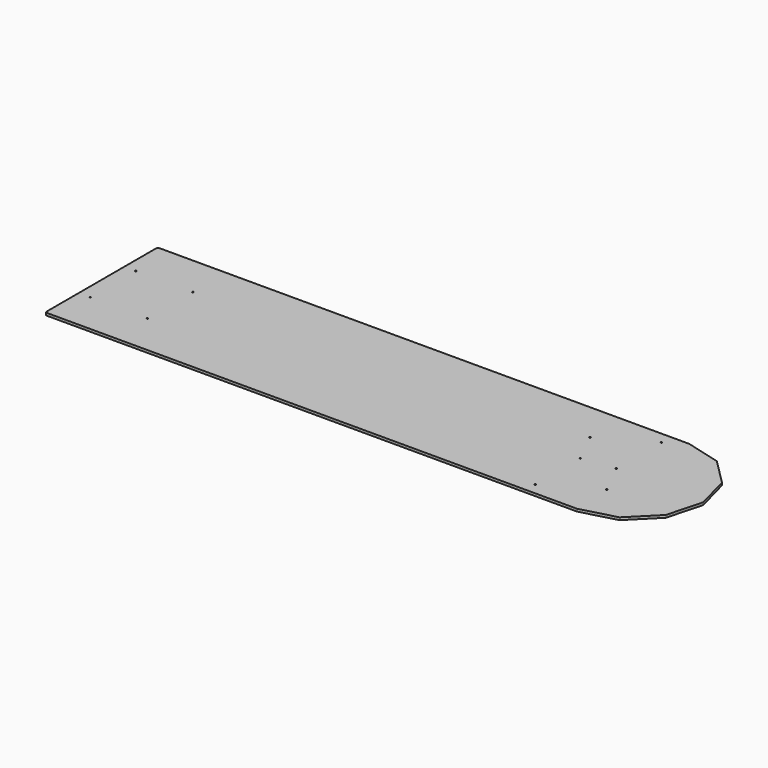
from build123d import *

# Parameters (mm, degrees)
F0_R     = 1.7272
F1_DEPTH = 6.35
F2_R     = 3.96875


with BuildPart() as f1:
    # F0 (on Top) → F1 (new body)
    with BuildSketch(Plane.XY):
        Polygon((88.9, 153.979317), (0, 177.8), (-1346.2, 177.8), (-1346.2, -177.8), (0, -177.8), (88.9, -153.979317), (153.979317, -88.9), (177.8, 0), (153.979317, 88.9), align=None)
        with Locations((-1316.83125, -72.23125)):
            Circle(F0_R, mode=Mode.SUBTRACT)
        with Locations((-1172.36875, -72.23125)):
            Circle(F0_R, mode=Mode.SUBTRACT)
        with Locations((-129.214784, -148.166667)):
            Circle(F0_R, mode=Mode.SUBTRACT)
        with Locations((-5.389784, -76.67627)):
            Circle(F0_R, mode=Mode.SUBTRACT)
        with Locations((-129.214784, -5.185873)):
            Circle(F0_R, mode=Mode.SUBTRACT)
        with Locations((-1316.83125, 72.23125)):
            Circle(F0_R, mode=Mode.SUBTRACT)
        with Locations((-1172.36875, 72.23125)):
            Circle(F0_R, mode=Mode.SUBTRACT)
        with Locations((-46.664784, 5.185873)):
            Circle(F0_R, mode=Mode.SUBTRACT)
        with Locations((-170.489784, 76.67627)):
            Circle(F0_R, mode=Mode.SUBTRACT)
        with Locations((-46.664784, 148.166667)):
            Circle(F0_R, mode=Mode.SUBTRACT)
    extrude(amount=F1_DEPTH)

    # F2
    f2_edges = [f1.edges().sort_by_distance(p)[0] for p in [
        (0, -177.8, 3.175),
        (88.9, -153.979317, 3.175),
        (153.979317, -88.9, 3.175),
        (177.8, 0, 3.175),
        (153.979317, 88.9, 3.175),
        (88.9, 153.979317, 3.175),
        (0, 177.8, 3.175),
        (-1346.2, 177.8, 3.175),
        (-1346.2, -177.8, 3.175),
    ]]
    fillet(f2_edges, radius=F2_R)


solid = f1.part
